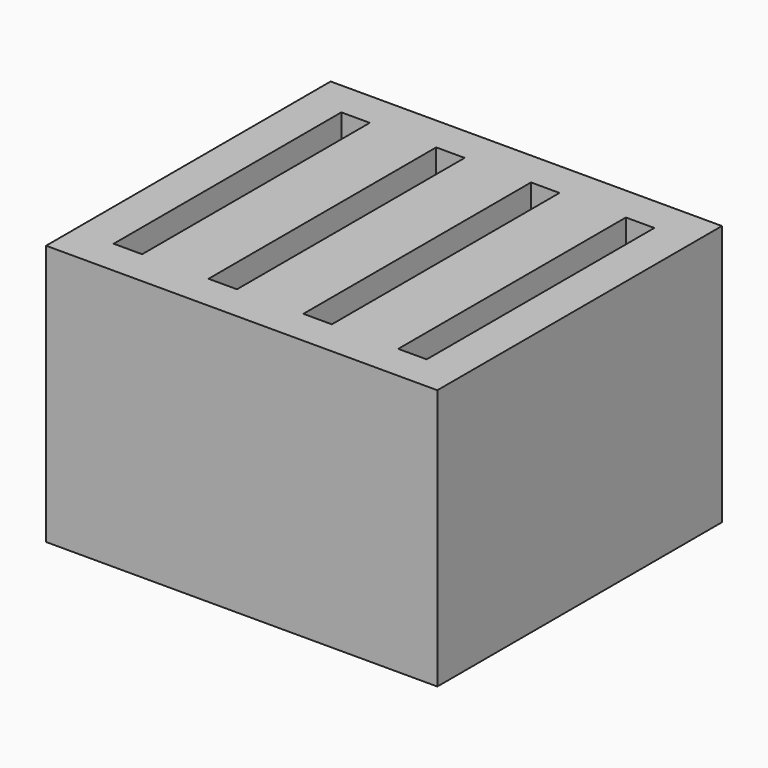
from build123d import *

# Parameters (mm, degrees)
BOX001_W     = 2.4
BOX001_H     = 24
BOX001_DEPTH = 24
BOX002_W     = 2.4
BOX002_H     = 24
BOX002_DEPTH = 24
BOX003_W     = 2.4
BOX003_H     = 24
BOX003_DEPTH = 24
BOX004_W     = 2.4
BOX004_H     = 24
BOX004_DEPTH = 24
BOX_W        = 33
BOX_H        = 30
BOX_DEPTH    = 22


with BuildPart() as box001:
    # Box001 → Box001 (new body)
    with BuildSketch(Plane.XY):
        with Locations((1.2, 12)):
            Rectangle(BOX001_W, BOX001_H)
    extrude(amount=BOX001_DEPTH)


with BuildPart() as box002:
    # Box002 → Box002 (new body)
    with BuildSketch(Plane(origin=(8, 0, 0), x_dir=(1, 0, 0), z_dir=(0, 0, 1))):
        with Locations((1.2, 12)):
            Rectangle(BOX002_W, BOX002_H)
    extrude(amount=BOX002_DEPTH)


with BuildPart() as box003:
    # Box003 → Box003 (new body)
    with BuildSketch(Plane(origin=(16, 0, 0), x_dir=(1, 0, 0), z_dir=(0, 0, 1))):
        with Locations((1.2, 12)):
            Rectangle(BOX003_W, BOX003_H)
    extrude(amount=BOX003_DEPTH)


with BuildPart() as ranuras_sd:
    # Box004 → Box004 (new body)
    with BuildSketch(Plane(origin=(24, 0, 0), x_dir=(1, 0, 0), z_dir=(0, 0, 1))):
        with Locations((1.2, 12)):
            Rectangle(BOX004_W, BOX004_H)
    extrude(amount=BOX004_DEPTH)

    # Fusion: union Box001, Box002, Box003
    add(box001.part)
    add(box002.part)
    add(box003.part)


with BuildPart() as ranuras_sd_1:
    # Fusion placement: moved
    add(ranuras_sd.part.moved(Location((-13.2, -12, 3))))


with BuildPart() as porta_sd:
    # Box → Box (new body)
    with BuildSketch(Plane(origin=(-16.5, -15, 0), x_dir=(1, 0, 0), z_dir=(0, 0, 1))):
        with Locations((16.5, 15)):
            Rectangle(BOX_W, BOX_H)
    extrude(amount=BOX_DEPTH)

    # Cut: cut ranuras_sd
    add(ranuras_sd_1.part, mode=Mode.SUBTRACT)


with BuildPart() as porta_sd_1:
    # Cut placement: moved
    add(porta_sd.part.moved(Location((16.5, 15, 0))))


solid = porta_sd_1.part
